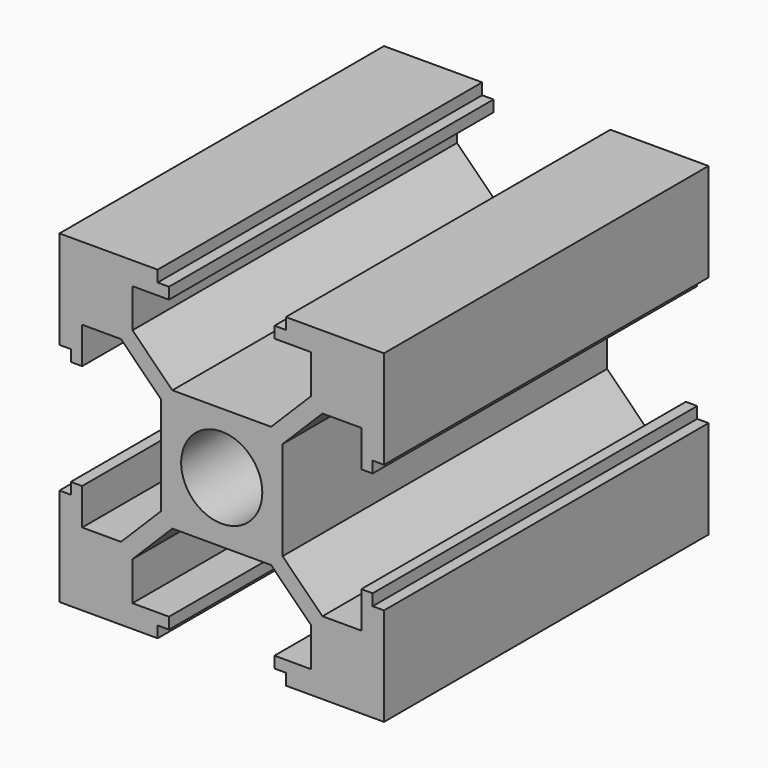
from build123d import *

# Parameters (mm, degrees)
F0_R     = 2.5
F1_DEPTH = 25


with BuildPart() as f1:
    # F0 (on Front) → F1 (new body)
    with BuildSketch(Plane.XZ):
        Polygon((10, 3.95), (10, 10), (3.95, 10), (3.95, 9.3), (3.25, 9.3), (3.25, 8.6), (5.5, 8.6), (5.5, 6.207107), (3.042893, 3.75), (0, 3.75), (-3.042893, 3.75), (-5.5, 6.207107), (-5.5, 8.6), (-3.25, 8.6), (-3.25, 9.3), (-3.95, 9.3), (-3.95, 10), (-10, 10), (-10, 3.95), (-9.3, 3.95), (-9.3, 3.25), (-8.6, 3.25), (-8.6, 5.5), (-6.207107, 5.5), (-3.75, 3.042893), (-3.75, 0), (-3.75, -3.042893), (-6.207107, -5.5), (-8.6, -5.5), (-8.6, -3.25), (-9.3, -3.25), (-9.3, -3.95), (-10, -3.95), (-10, -10), (-3.95, -10), (-3.95, -9.3), (-3.25, -9.3), (-3.25, -8.6), (-5.5, -8.6), (-5.5, -6.207107), (-3.042893, -3.75), (0, -3.75), (3.042893, -3.75), (5.5, -6.207107), (5.5, -8.6), (3.25, -8.6), (3.25, -9.3), (3.95, -9.3), (3.95, -10), (10, -10), (10, -3.95), (9.3, -3.95), (9.3, -3.25), (8.6, -3.25), (8.6, -5.5), (6.207107, -5.5), (3.75, -3.042893), (3.75, 0), (3.75, 3.042893), (6.207107, 5.5), (8.6, 5.5), (8.6, 3.25), (9.3, 3.25), (9.3, 3.95), align=None)
        Circle(F0_R, mode=Mode.SUBTRACT)
    extrude(amount=F1_DEPTH)


solid = f1.part
